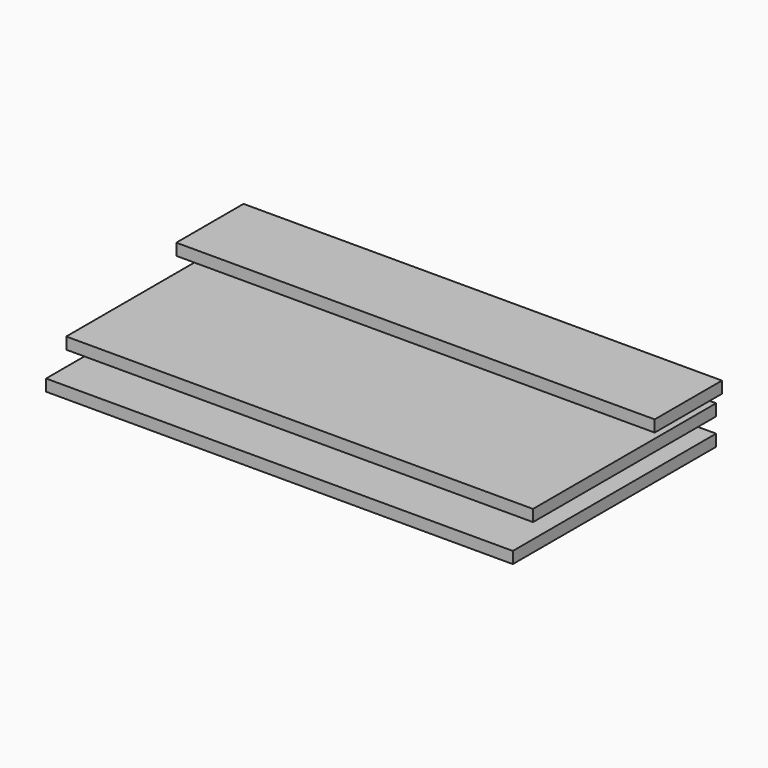
from build123d import *

# Parameters (mm, degrees)
F0_W     = 722
F0_H     = 18
F1_DEPTH = 393
F2_DEPTH = 354
F3_W     = 740
F3_H     = 18
F4_DEPTH = 130


with BuildPart() as f1:
    # F0 (on Front) → F1 (new body)
    with BuildSketch(Plane.XZ):
        with Locations((0, -41.365389)):
            Rectangle(F0_W, F0_H)
    extrude(amount=F1_DEPTH)


with BuildPart() as f2:
    # F0 (on Front) → F2 (new body)
    with BuildSketch(Plane.XZ):
        Rectangle(F0_W, F0_H)
    extrude(amount=F2_DEPTH)


with BuildPart() as f4:
    # F3 (on Front) → F4 (new body)
    with BuildSketch(Plane.XZ):
        with Locations((0, 33.776317)):
            Rectangle(F3_W, F3_H)
    extrude(amount=F4_DEPTH)


solid = Compound([f1.part, f2.part, f4.part])
